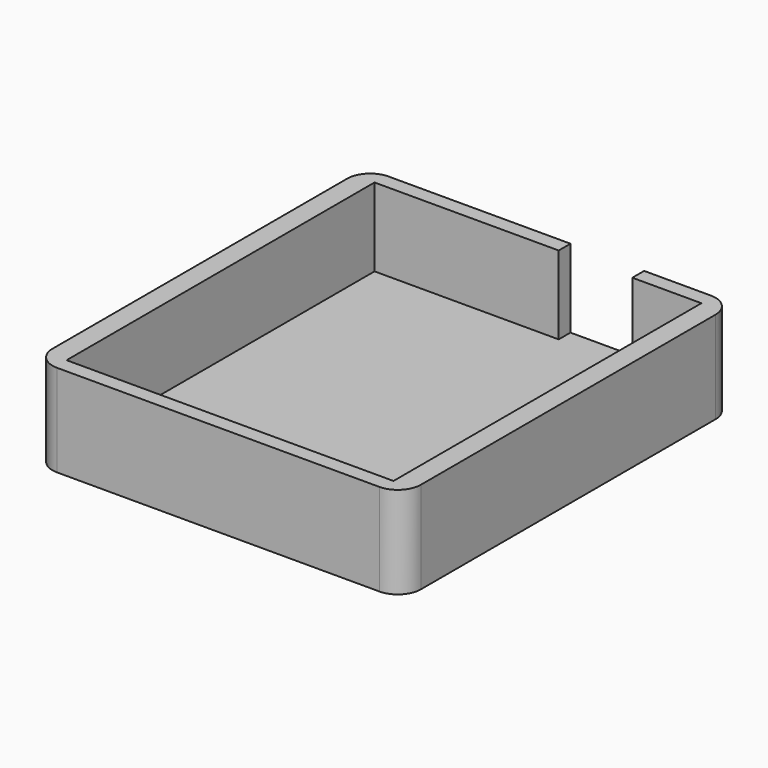
from build123d import *

# Parameters (mm, degrees)
F0_W     = 80
F0_H     = 90
F1_DEPTH = 20
F2_W     = 71
F2_H     = 83.6
F3_DEPTH = 17
F4_W     = 16
F4_H     = 3.2
F5_DEPTH = 17
F6_R     = 5


with BuildPart() as f1:
    # F0 (on Top) → F1 (new body)
    with BuildSketch(Plane.XY):
        Rectangle(F0_W, F0_H)
    extrude(amount=F1_DEPTH)

    # F2 (on face) → F3 (cut)
    with BuildSketch(Plane.XY.offset(20)):
        Rectangle(F2_W, F2_H)
    extrude(amount=-F3_DEPTH, mode=Mode.SUBTRACT)

    # F4 (on face) → F5 (cut, through all)
    with BuildSketch(Plane.XY.offset(20)):
        with Locations((12.5, 43.4)):
            Rectangle(F4_W, F4_H)
    extrude(amount=-F5_DEPTH, mode=Mode.SUBTRACT)

    # F6
    f6_edges = [f1.edges().sort_by_distance(p)[0] for p in [
        (40, 45, 10),
        (-40, 45, 10),
        (40, -45, 10),
        (-40, -45, 10),
    ]]
    fillet(f6_edges, radius=F6_R)


solid = f1.part
